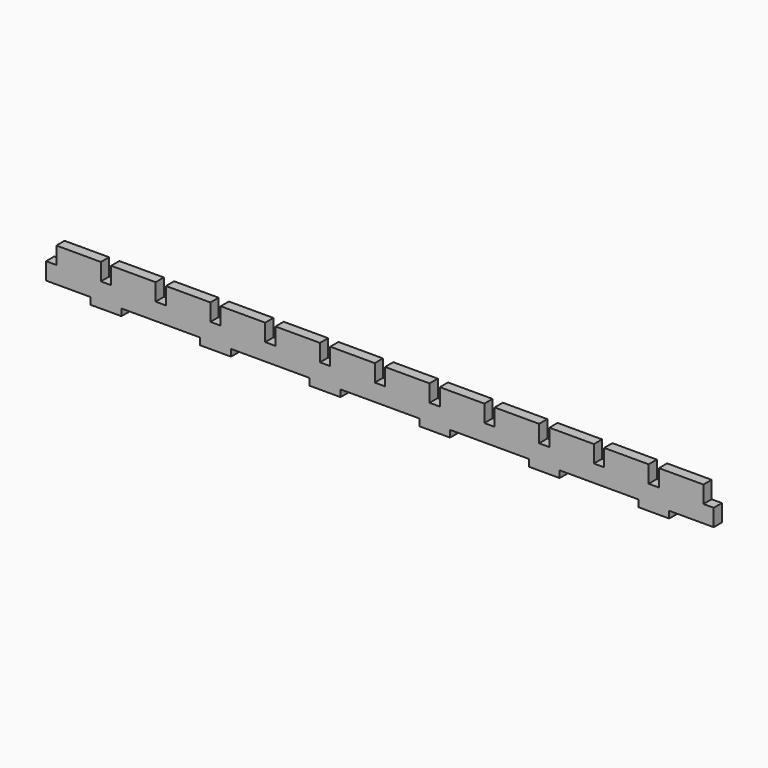
from build123d import *

# Parameters (mm, degrees)
F0_W     = 3
F0_H     = 2
F0_W_2   = 1.5
F0_H_2   = 5
F1_DEPTH = 3


with BuildPart() as f1:
    # F0 (on Front) → F1 (new body)
    with BuildSketch(Plane.XZ):
        Polygon((1.5, 5), (1.5, 0), (11.5, 0), (14.5, 0), (14.5, 5), (14.5, 10), (11.5, 10), (1.5, 10), align=None)
        Polygon((17.5, 5), (17.5, 0), (20.5, 0), (30.5, 0), (30.5, 5), (30.5, 10), (20.5, 10), (17.5, 10), align=None)
        with Locations((45, -1)):
            Rectangle(F0_W, F0_H)
        with Locations((51, -1)):
            Rectangle(F0_W, F0_H)
        with Locations((77, -1)):
            Rectangle(F0_W, F0_H)
        with Locations((83, -1)):
            Rectangle(F0_W, F0_H)
        with Locations((109, -1)):
            Rectangle(F0_W, F0_H)
        with Locations((115, -1)):
            Rectangle(F0_W, F0_H)
        with Locations((141, -1)):
            Rectangle(F0_W, F0_H)
        with Locations((147, -1)):
            Rectangle(F0_W, F0_H)
        with Locations((173, -1)):
            Rectangle(F0_W, F0_H)
        with Locations((179, -1)):
            Rectangle(F0_W, F0_H)
        Polygon((33.5, 5), (33.5, 0), (43.5, 0), (46.5, 0), (46.5, 5), (46.5, 10), (33.5, 10), align=None)
        Polygon((49.5, 5), (49.5, 0), (52.5, 0), (62.5, 0), (62.5, 5), (62.5, 10), (49.5, 10), align=None)
        Polygon((78.5, 10), (65.5, 10), (65.5, 5), (65.5, 0), (75.5, 0), (78.5, 0), (78.5, 5), align=None)
        Polygon((94.5, 10), (81.5, 10), (81.5, 5), (81.5, 0), (84.5, 0), (94.5, 0), (94.5, 5), align=None)
        Polygon((110.5, 10), (97.5, 10), (97.5, 5), (97.5, 0), (107.5, 0), (110.5, 0), (110.5, 5), align=None)
        Polygon((126.5, 10), (113.5, 10), (113.5, 5), (113.5, 0), (116.5, 0), (126.5, 0), (126.5, 5), align=None)
        Polygon((142.5, 10), (129.5, 10), (129.5, 5), (129.5, 0), (139.5, 0), (142.5, 0), (142.5, 5), align=None)
        Polygon((158.5, 10), (145.5, 10), (145.5, 5), (145.5, 0), (148.5, 0), (158.5, 0), (158.5, 5), align=None)
        Polygon((171.5, 10), (161.5, 10), (161.5, 5), (161.5, 0), (171.5, 0), (174.5, 0), (174.5, 5), (174.5, 10), align=None)
        Polygon((180.5, 10), (177.5, 10), (177.5, 5), (177.5, 0), (180.5, 0), (190.5, 0), (190.5, 5), (190.5, 10), align=None)
        with Locations((0.75, 2.5)):
            Rectangle(F0_W_2, F0_H_2)
        with Locations((-0.75, 2.5)):
            Rectangle(F0_W_2, F0_H_2)
        with Locations((16, -1)):
            Rectangle(F0_W, F0_H)
        with Locations((16, 2.5)):
            Rectangle(F0_W, F0_H_2)
        with Locations((32, 2.5)):
            Rectangle(F0_W, F0_H_2)
        with Locations((48, -1)):
            Rectangle(F0_W, F0_H)
        with Locations((48, 2.5)):
            Rectangle(F0_W, F0_H_2)
        with Locations((13, -1)):
            Rectangle(F0_W, F0_H)
        with Locations((19, -1)):
            Rectangle(F0_W, F0_H)
        with Locations((64, 2.5)):
            Rectangle(F0_W, F0_H_2)
        with Locations((80, 2.5)):
            Rectangle(F0_W, F0_H_2)
        with Locations((80, -1)):
            Rectangle(F0_W, F0_H)
        with Locations((96.75, 2.5)):
            Rectangle(F0_W_2, F0_H_2)
        with Locations((112, 2.5)):
            Rectangle(F0_W, F0_H_2)
        with Locations((112, -1)):
            Rectangle(F0_W, F0_H)
        with Locations((128, 2.5)):
            Rectangle(F0_W, F0_H_2)
        with Locations((144, 2.5)):
            Rectangle(F0_W, F0_H_2)
        with Locations((144, -1)):
            Rectangle(F0_W, F0_H)
        with Locations((160, 2.5)):
            Rectangle(F0_W, F0_H_2)
        with Locations((95.25, 2.5)):
            Rectangle(F0_W_2, F0_H_2)
        with Locations((176, 2.5)):
            Rectangle(F0_W, F0_H_2)
        with Locations((176, -1)):
            Rectangle(F0_W, F0_H)
        with Locations((191.25, 2.5)):
            Rectangle(F0_W_2, F0_H_2)
        with Locations((192.75, 2.5)):
            Rectangle(F0_W_2, F0_H_2)
    extrude(amount=F1_DEPTH)


solid = f1.part
